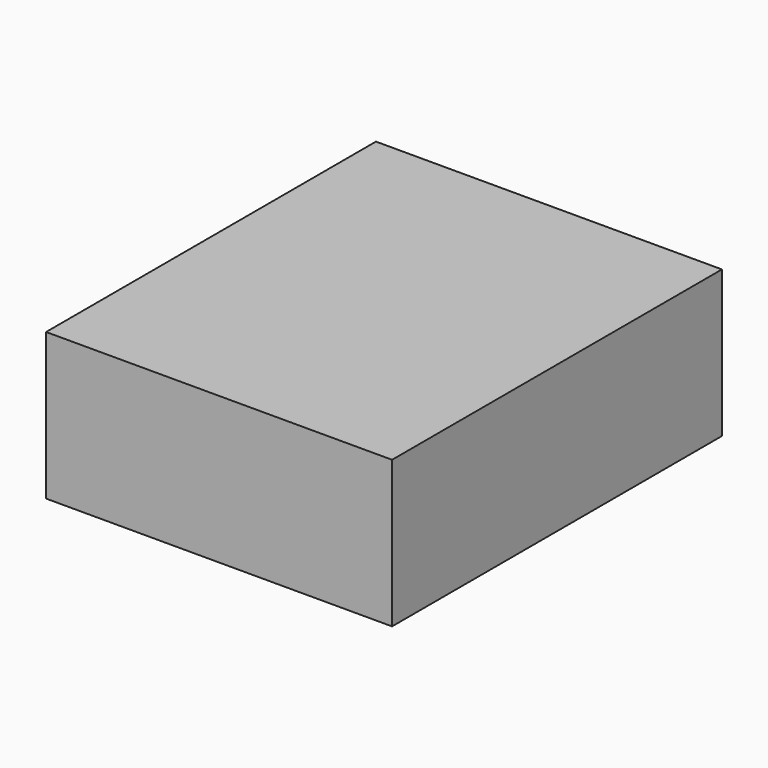
from build123d import *

# Parameters (mm, degrees)
F2_W     = 59.913032
F2_H     = 71.398318
F3_DEPTH = 25.4


with BuildPart() as f3:
    # F2 (on face) → F3 (new body)
    with BuildSketch(Plane.XY):
        with Locations((-51.567394, -35.699159)):
            Rectangle(F2_W, F2_H)
    extrude(amount=F3_DEPTH)


solid = f3.part
